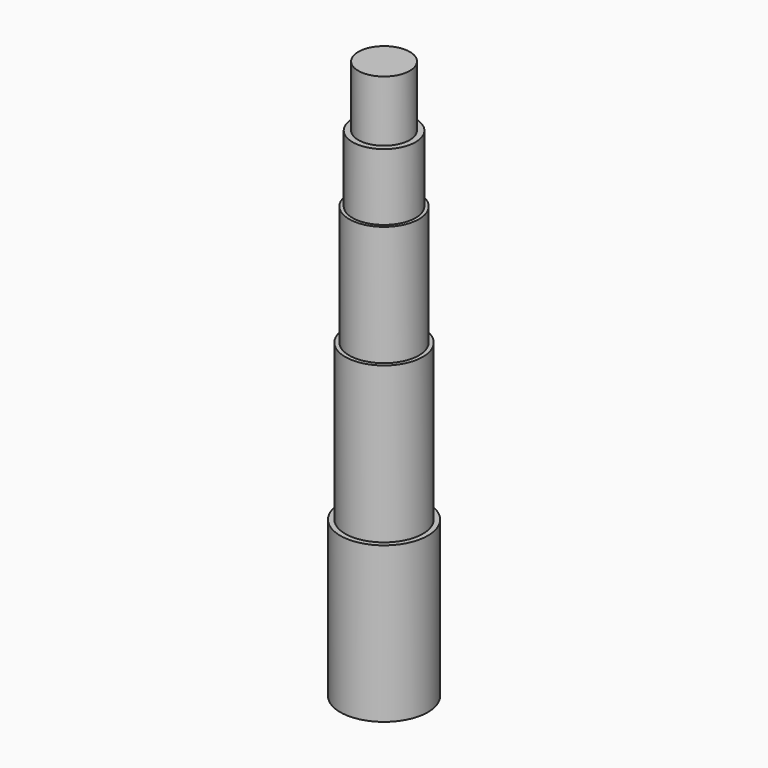
from build123d import *

# Parameters (mm, degrees)
F0_R     = 330.708
F1_DEPTH = 1172.464
F2_R     = 292.862
F3_DEPTH = 1175.004
F4_R     = 263.144
F5_DEPTH = 905.002
F6_R     = 237.744
F7_DEPTH = 503.428
F8_R     = 194.31
F9_DEPTH = 459.486


with BuildPart() as f1:
    # F0 (on Top) → F1 (new body)
    with BuildSketch(Plane.XY):
        Circle(F0_R)
    extrude(amount=F1_DEPTH)

    # F2 (on face) → F3 (join)
    with BuildSketch(Plane.XY.offset(1172.464)):
        Circle(F2_R)
    extrude(amount=F3_DEPTH)

    # F4 (on face) → F5 (join)
    with BuildSketch(Plane.XY.offset(2347.468)):
        Circle(F4_R)
    extrude(amount=F5_DEPTH)

    # F6 (on face) → F7 (join)
    with BuildSketch(Plane.XY.offset(3252.47)):
        Circle(F6_R)
    extrude(amount=F7_DEPTH)

    # F8 (on face) → F9 (join)
    with BuildSketch(Plane.XY.offset(3755.898)):
        Circle(F8_R)
    extrude(amount=F9_DEPTH)


solid = f1.part
